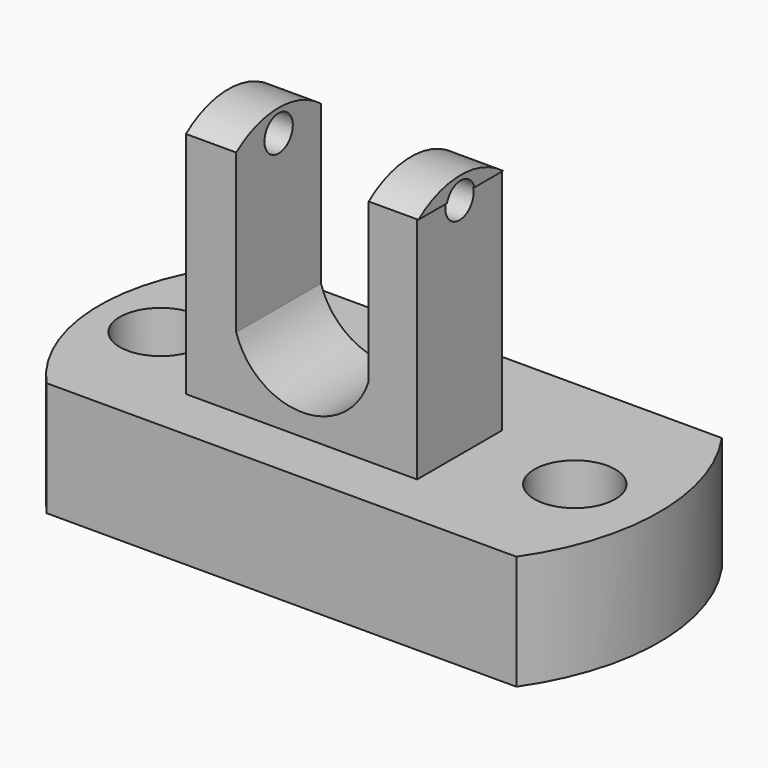
from build123d import *

# Parameters (mm, degrees)
F0_W      = 52.1168857813
F0_H      = 28.5012163222
F1_DEPTH  = 12.7
F3_DEPTH  = 12.7
F5_DEPTH  = 12.7
F6_W      = 25.6421938539
F6_H      = 11.7544634268
F7_DEPTH  = 25.4
F9_DEPTH  = 25.781
F10_W     = 14.6912932396
F10_H     = 17.5639255852
F11_DEPTH = 22.5609156693
F12_R     = 4.5307401999
F12_R_2   = 4.4852627038
F13_DEPTH = 12.701
F14_R     = 1.9651697752
F15_DEPTH = 45.8603734278
F17_DEPTH = 22.5609156693


with BuildPart() as f1:
    # F0 (on Top) → F1 (new body)
    with BuildSketch(Plane.XY):
        with Locations((-10.29464975, 14.2506081611)):
            Rectangle(F0_W, F0_H)
    extrude(amount=F1_DEPTH)

    # F2 (on face) → F3 (join)
    with BuildSketch(Plane.XY.offset(12.7)):
        with BuildLine():
            Line((-36.3530926406, 0), (-36.3530926406, 28.5012163222))
            ThreePointArc((-36.3530926406, 28.5012163222), (-41.8927435543, 14.2506081611), (-36.3530926406, 0))
        make_face()
    extrude(amount=-F3_DEPTH)

    # F4 (on face) → F5 (join)
    with BuildSketch(Plane.XY.offset(12.7)):
        with BuildLine():
            Line((15.7637931406, 28.5012163222), (15.7637931406, 0))
            ThreePointArc((15.7637931406, 0), (20.217179574, 14.2506081611), (15.7637931406, 28.5012163222))
        make_face()
    extrude(amount=-F5_DEPTH)

    # F6 (on face) → F7 (join)
    with BuildSketch(Plane.XY.offset(12.7)):
        with Locations((-12.8210969269, 11.8185323663)):
            Rectangle(F6_W, F6_H)
    extrude(amount=F7_DEPTH)

    # F8 (on face) → F9 (join)
    with BuildSketch(Plane(origin=(-25.6421938539, 0, 0), x_dir=(0, -1, 0), z_dir=(-1, 0, 0))):
        with BuildLine():
            Line((-17.6957640797, 38.1), (-5.9413006529, 38.1))
            ThreePointArc((-5.9413006529, 38.1), (-11.8185323663, 40.0893589301), (-17.6957640797, 38.1))
        make_face()
    extrude(amount=-F9_DEPTH)

    # F10 (on face) → F11 (cut, through all)
    with BuildSketch(Plane.XZ.offset(-5.9413006529)):
        Polygon((-5.3697098047, 40.5042394996), (-20.0610030442, 40.2643792331), (-20.0610030442, 38.1), (-5.3697098047, 38.1), align=None)
        with Locations((-12.7153564245, 29.3180372074)):
            Rectangle(F10_W, F10_H)
    extrude(amount=-F11_DEPTH, mode=Mode.SUBTRACT)

    # F12 (on face) → F13 (cut, through all)
    with BuildSketch(Plane.XY.offset(12.7)):
        with Locations((-34.616753459, 13.6625757441)):
            Circle(F12_R)
        with Locations((11.228363961, 13.7757733464)):
            Circle(F12_R_2)
    extrude(amount=-F13_DEPTH, mode=Mode.SUBTRACT)

    # F14 (on face) → F15 (cut, through all)
    with BuildSketch(Plane(origin=(-25.6421938539, 0, 0), x_dir=(0, -1, 0), z_dir=(-1, 0, 0))):
        with Locations((-11.8185323663, 37.5899001956)):
            Circle(F14_R)
    extrude(amount=-F15_DEPTH, mode=Mode.SUBTRACT)

    # F16 (on face) → F17 (cut, through all)
    with BuildSketch(Plane.XZ.offset(-5.9413006529)):
        with BuildLine():
            Line((-5.3697098047, 20.5360744148), (-20.0610030442, 20.5360744148))
            ThreePointArc((-20.0610030442, 20.5360744148), (-12.7153564245, 15.1077599737), (-5.3697098047, 20.5360744148))
        make_face()
    extrude(amount=-F17_DEPTH, mode=Mode.SUBTRACT)


solid = f1.part
